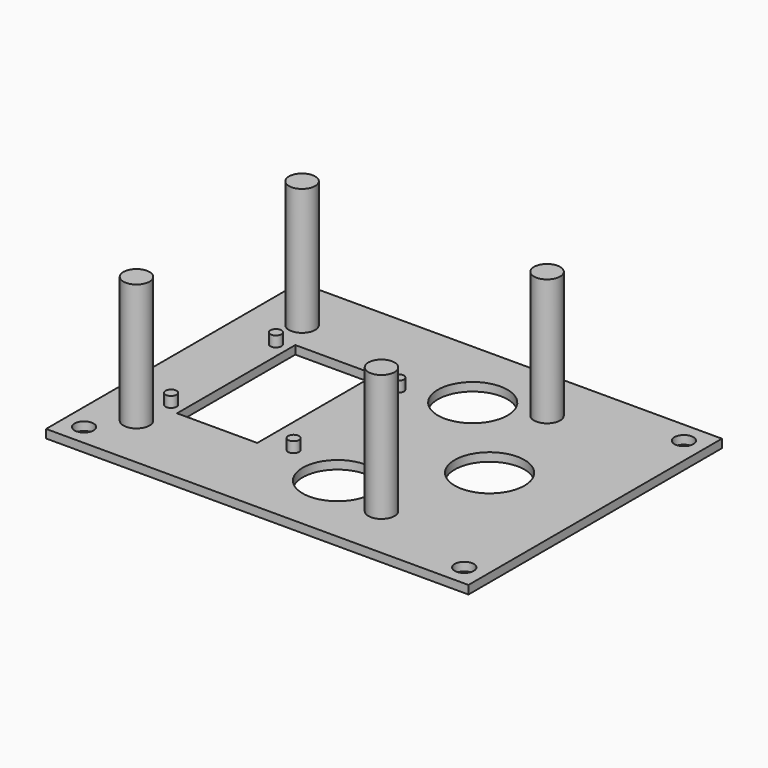
from build123d import *

# Parameters (mm, degrees)
SKETCH_W     = 100
SKETCH_H     = 75
SKETCH_R     = 8.25
SKETCH_R_2   = 2.25
SKETCH_W_2   = 19
SKETCH_H_2   = 35
PAD001_DEPTH = 2
SKETCH008_R  = 1.3
PAD006_DEPTH = 2.5
SKETCH009_R  = 3.1
PAD007_DEPTH = 30


with BuildPart() as part:
    # Sketch → Pad001 (new body)
    with BuildSketch(Plane.XY):
        Rectangle(SKETCH_W, SKETCH_H)
        with Locations((5, 20)):
            Circle(SKETCH_R, mode=Mode.SUBTRACT)
        with Locations((5, -20)):
            Circle(SKETCH_R, mode=Mode.SUBTRACT)
        with Locations((-45, 32.5)):
            Circle(SKETCH_R_2, mode=Mode.SUBTRACT)
        with Locations((-45, -32.5)):
            Circle(SKETCH_R_2, mode=Mode.SUBTRACT)
        with Locations((45, 32.5)):
            Circle(SKETCH_R_2, mode=Mode.SUBTRACT)
        with Locations((45, -32.5)):
            Circle(SKETCH_R_2, mode=Mode.SUBTRACT)
        with Locations((25, 0)):
            Circle(SKETCH_R, mode=Mode.SUBTRACT)
        with Locations((-25.5, 0)):
            Rectangle(SKETCH_W_2, SKETCH_H_2, mode=Mode.SUBTRACT)
    extrude(amount=PAD001_DEPTH)

    # Sketch008 (on Face17 of Pad001) → Pad006 (join)
    with BuildSketch(Plane.XY.offset(2)):
        with Locations((-38, 15.5)):
            Circle(SKETCH008_R)
        with Locations((-9, 15.5)):
            Circle(SKETCH008_R)
        with Locations((-38, -15.5)):
            Circle(SKETCH008_R)
        with Locations((-9, -15.5)):
            Circle(SKETCH008_R)
    extrude(amount=PAD006_DEPTH)

    # Sketch009 (on Face5 of Pad006) → Pad007 (join)
    with BuildSketch(Plane.XY.offset(2)):
        with Locations((19, 24.5)):
            Circle(SKETCH009_R)
        with Locations((-39, 24.5)):
            Circle(SKETCH009_R)
        with Locations((-39, -24.5)):
            Circle(SKETCH009_R)
        with Locations((19, -24.5)):
            Circle(SKETCH009_R)
    extrude(amount=PAD007_DEPTH)


with BuildPart() as part_1:
    # Body placement: moved
    add(part.part.moved(Location((0, 0, -2))))


solid = part_1.part
